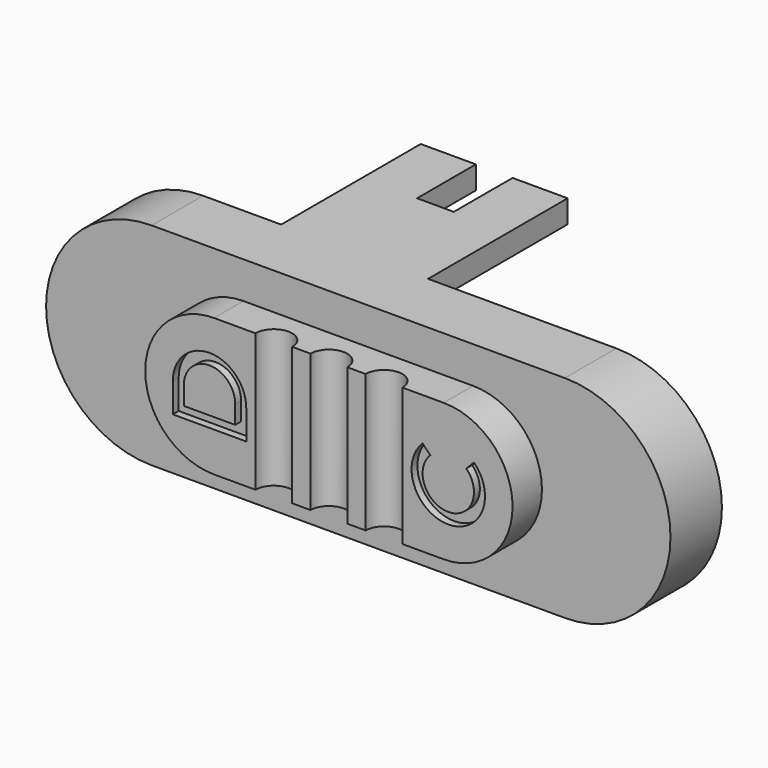
from build123d import *

# Parameters (mm, degrees)
PAD001_DEPTH        = 2
PAD002_DEPTH        = 3.5
PAD003_DEPTH        = 1.25
CYLINDER_R          = 1
CYLINDER_DEPTH      = 20
LINEARPATTERN_COUNT = 3
LINEARPATTERN_PITCH = 3
POCKET008_DEPTH     = 0.4


with BuildPart() as part:
    # Sketch008 → Pad001 (new body)
    with BuildSketch(Plane.XZ):
        with BuildLine():
            ThreePointArc((-6.25, 3.75), (-10, 0), (-6.25, -3.75))
            Line((-6.25, -3.75), (6.25, -3.75))
            ThreePointArc((6.25, -3.75), (10, 0), (6.25, 3.75))
            Line((6.25, 3.75), (-6.25, 3.75))
        make_face()
    extrude(amount=PAD001_DEPTH)

    # Sketch010 → Pad002 (join)
    with BuildSketch(Plane.XZ):
        with BuildLine():
            ThreePointArc((-11.25, 5.75), (-17, 0), (-11.25, -5.75))
            Line((-11.25, -5.75), (11.25, -5.75))
            ThreePointArc((11.25, -5.75), (17, 0), (11.25, 5.75))
            Line((11.25, 5.75), (-11.25, 5.75))
        make_face()
    extrude(amount=-PAD002_DEPTH)

    # Sketch011 → Pad003 (join)
    with BuildSketch(Plane.XY.offset(4.5)):
        Polygon((-7, 0), (-7, 13), (-4, 13), (-4, 9), (-2, 9), (-2, 13), (1, 13), (1, 0), align=None)
    extrude(amount=PAD003_DEPTH)

    # Cylinder → Cylinder (cut)
    with BuildSketch(Plane(origin=(-3, -2, -10), x_dir=(1, 0, 0), z_dir=(0, 0, 1))):
        Circle(CYLINDER_R)
    cylinder = extrude(amount=CYLINDER_DEPTH, mode=Mode.SUBTRACT)

    # LinearPattern: Cylinder ×3
    with Locations(*[(i * LINEARPATTERN_PITCH, 0, 0) for i in range(1, LINEARPATTERN_COUNT)]):
        add(cylinder, mode=Mode.SUBTRACT)

    # Sketch012 → Pocket008 (cut)
    with BuildSketch(Plane.XZ.offset(2)):
        with BuildLine():
            ThreePointArc((-4.5, 0), (-6.5, 2), (-8.5, 0))
            Line((-8.5, 0), (-8.5, -1.6))
            Line((-8.5, -1.6), (-4.5, -1.6))
            Line((-4.5, -1.6), (-4.5, 0))
        make_face()
        with BuildLine():
            ThreePointArc((-5.1, 0), (-6.5, 1.4), (-7.9, 0))
            Line((-7.9, -1), (-7.9, 0))
            Line((-5.1, -1), (-7.9, -1))
            Line((-5.1, 0), (-5.1, -1))
        make_face(mode=Mode.SUBTRACT)
        with BuildLine():
            ThreePointArc((5.520204, 1), (6.5, -1.4), (7.479796, 1))
            Line((7.479796, 1), (7.899708, 1.428571))
            ThreePointArc((5.100292, 1.428571), (6.5, -2), (7.899708, 1.428571))
            Line((5.520204, 1), (5.100292, 1.428571))
        make_face()
    extrude(amount=-POCKET008_DEPTH, mode=Mode.SUBTRACT)


solid = part.part
